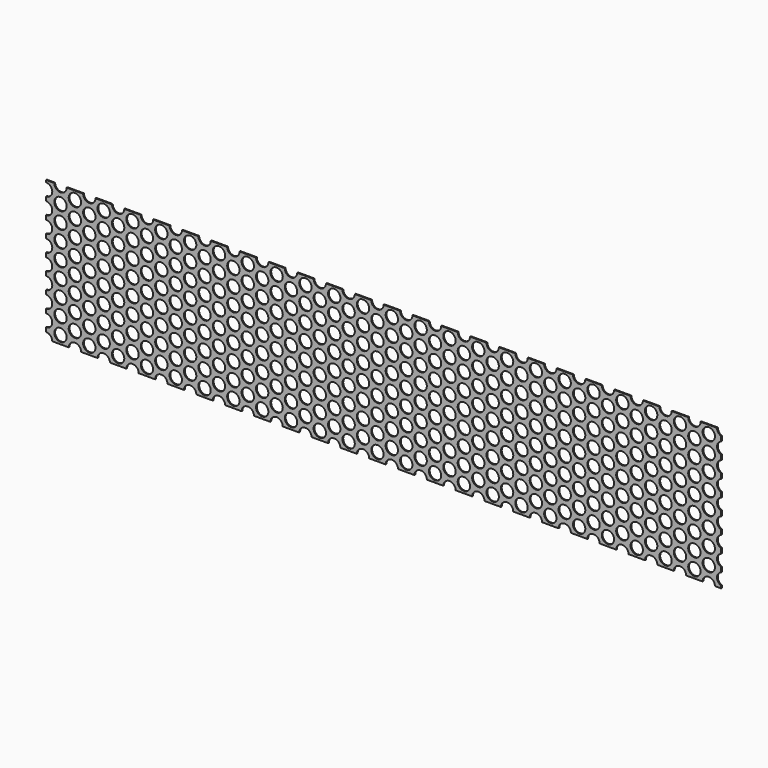
from build123d import *

# Parameters (mm, degrees)
F0_W     = 1041.4
F0_H     = 215.9
F1_DEPTH = 1.524
F2_R     = 9.525
F3_DEPTH = 1.525


with BuildPart() as f1:
    # F0 (on Front) → F1 (new body)
    with BuildSketch(Plane.XZ):
        with Locations((520.7, 107.95)):
            Rectangle(F0_W, F0_H)
    extrude(amount=F1_DEPTH)

    # F2 (on face) → F3 (cut, through all)
    with BuildSketch(Plane.XZ.offset(1.524)):
        Circle(F2_R)
        with Locations((0, 25.4)):
            Circle(F2_R)
        with Locations((0, 50.8)):
            Circle(F2_R)
        with Locations((0, 76.2)):
            Circle(F2_R)
        with Locations((0, 101.6)):
            Circle(F2_R)
        with Locations((0, 127)):
            Circle(F2_R)
        with Locations((0, 152.4)):
            Circle(F2_R)
        with Locations((0, 177.8)):
            Circle(F2_R)
        with Locations((0, 203.2)):
            Circle(F2_R)
        with Locations((44.45, 0)):
            Circle(F2_R)
        with Locations((44.45, 25.4)):
            Circle(F2_R)
        with Locations((44.45, 50.8)):
            Circle(F2_R)
        with Locations((44.45, 76.2)):
            Circle(F2_R)
        with Locations((44.45, 101.6)):
            Circle(F2_R)
        with Locations((44.45, 127)):
            Circle(F2_R)
        with Locations((44.45, 152.4)):
            Circle(F2_R)
        with Locations((44.45, 177.8)):
            Circle(F2_R)
        with Locations((44.45, 203.2)):
            Circle(F2_R)
        with Locations((88.9, 0)):
            Circle(F2_R)
        with Locations((88.9, 25.4)):
            Circle(F2_R)
        with Locations((88.9, 50.8)):
            Circle(F2_R)
        with Locations((88.9, 76.2)):
            Circle(F2_R)
        with Locations((88.9, 101.6)):
            Circle(F2_R)
        with Locations((88.9, 127)):
            Circle(F2_R)
        with Locations((88.9, 152.4)):
            Circle(F2_R)
        with Locations((88.9, 177.8)):
            Circle(F2_R)
        with Locations((88.9, 203.2)):
            Circle(F2_R)
        with Locations((133.35, 0)):
            Circle(F2_R)
        with Locations((133.35, 25.4)):
            Circle(F2_R)
        with Locations((133.35, 50.8)):
            Circle(F2_R)
        with Locations((133.35, 76.2)):
            Circle(F2_R)
        with Locations((133.35, 101.6)):
            Circle(F2_R)
        with Locations((133.35, 127)):
            Circle(F2_R)
        with Locations((133.35, 152.4)):
            Circle(F2_R)
        with Locations((133.35, 177.8)):
            Circle(F2_R)
        with Locations((133.35, 203.2)):
            Circle(F2_R)
        with Locations((177.8, 0)):
            Circle(F2_R)
        with Locations((177.8, 25.4)):
            Circle(F2_R)
        with Locations((177.8, 50.8)):
            Circle(F2_R)
        with Locations((177.8, 76.2)):
            Circle(F2_R)
        with Locations((177.8, 101.6)):
            Circle(F2_R)
        with Locations((177.8, 127)):
            Circle(F2_R)
        with Locations((177.8, 152.4)):
            Circle(F2_R)
        with Locations((177.8, 177.8)):
            Circle(F2_R)
        with Locations((177.8, 203.2)):
            Circle(F2_R)
        with Locations((222.25, 0)):
            Circle(F2_R)
        with Locations((222.25, 25.4)):
            Circle(F2_R)
        with Locations((222.25, 50.8)):
            Circle(F2_R)
        with Locations((222.25, 76.2)):
            Circle(F2_R)
        with Locations((222.25, 101.6)):
            Circle(F2_R)
        with Locations((222.25, 127)):
            Circle(F2_R)
        with Locations((222.25, 152.4)):
            Circle(F2_R)
        with Locations((222.25, 177.8)):
            Circle(F2_R)
        with Locations((222.25, 203.2)):
            Circle(F2_R)
        with Locations((266.7, 0)):
            Circle(F2_R)
        with Locations((266.7, 25.4)):
            Circle(F2_R)
        with Locations((266.7, 50.8)):
            Circle(F2_R)
        with Locations((266.7, 76.2)):
            Circle(F2_R)
        with Locations((266.7, 101.6)):
            Circle(F2_R)
        with Locations((266.7, 127)):
            Circle(F2_R)
        with Locations((266.7, 152.4)):
            Circle(F2_R)
        with Locations((266.7, 177.8)):
            Circle(F2_R)
        with Locations((266.7, 203.2)):
            Circle(F2_R)
        with Locations((311.15, 0)):
            Circle(F2_R)
        with Locations((311.15, 25.4)):
            Circle(F2_R)
        with Locations((311.15, 50.8)):
            Circle(F2_R)
        with Locations((311.15, 76.2)):
            Circle(F2_R)
        with Locations((311.15, 101.6)):
            Circle(F2_R)
        with Locations((311.15, 127)):
            Circle(F2_R)
        with Locations((311.15, 152.4)):
            Circle(F2_R)
        with Locations((311.15, 177.8)):
            Circle(F2_R)
        with Locations((311.15, 203.2)):
            Circle(F2_R)
        with Locations((355.6, 0)):
            Circle(F2_R)
        with Locations((355.6, 25.4)):
            Circle(F2_R)
        with Locations((355.6, 50.8)):
            Circle(F2_R)
        with Locations((355.6, 76.2)):
            Circle(F2_R)
        with Locations((355.6, 101.6)):
            Circle(F2_R)
        with Locations((355.6, 127)):
            Circle(F2_R)
        with Locations((355.6, 152.4)):
            Circle(F2_R)
        with Locations((355.6, 177.8)):
            Circle(F2_R)
        with Locations((355.6, 203.2)):
            Circle(F2_R)
        with Locations((400.05, 0)):
            Circle(F2_R)
        with Locations((400.05, 25.4)):
            Circle(F2_R)
        with Locations((400.05, 50.8)):
            Circle(F2_R)
        with Locations((400.05, 76.2)):
            Circle(F2_R)
        with Locations((400.05, 101.6)):
            Circle(F2_R)
        with Locations((400.05, 127)):
            Circle(F2_R)
        with Locations((400.05, 152.4)):
            Circle(F2_R)
        with Locations((400.05, 177.8)):
            Circle(F2_R)
        with Locations((400.05, 203.2)):
            Circle(F2_R)
        with Locations((444.5, 0)):
            Circle(F2_R)
        with Locations((444.5, 25.4)):
            Circle(F2_R)
        with Locations((444.5, 50.8)):
            Circle(F2_R)
        with Locations((444.5, 76.2)):
            Circle(F2_R)
        with Locations((444.5, 101.6)):
            Circle(F2_R)
        with Locations((444.5, 127)):
            Circle(F2_R)
        with Locations((444.5, 152.4)):
            Circle(F2_R)
        with Locations((444.5, 177.8)):
            Circle(F2_R)
        with Locations((444.5, 203.2)):
            Circle(F2_R)
        with Locations((488.95, 0)):
            Circle(F2_R)
        with Locations((488.95, 25.4)):
            Circle(F2_R)
        with Locations((488.95, 50.8)):
            Circle(F2_R)
        with Locations((488.95, 76.2)):
            Circle(F2_R)
        with Locations((488.95, 101.6)):
            Circle(F2_R)
        with Locations((488.95, 127)):
            Circle(F2_R)
        with Locations((488.95, 152.4)):
            Circle(F2_R)
        with Locations((488.95, 177.8)):
            Circle(F2_R)
        with Locations((488.95, 203.2)):
            Circle(F2_R)
        with Locations((533.4, 0)):
            Circle(F2_R)
        with Locations((533.4, 25.4)):
            Circle(F2_R)
        with Locations((533.4, 50.8)):
            Circle(F2_R)
        with Locations((533.4, 76.2)):
            Circle(F2_R)
        with Locations((533.4, 101.6)):
            Circle(F2_R)
        with Locations((533.4, 127)):
            Circle(F2_R)
        with Locations((533.4, 152.4)):
            Circle(F2_R)
        with Locations((533.4, 177.8)):
            Circle(F2_R)
        with Locations((533.4, 203.2)):
            Circle(F2_R)
        with Locations((577.85, 0)):
            Circle(F2_R)
        with Locations((577.85, 25.4)):
            Circle(F2_R)
        with Locations((577.85, 50.8)):
            Circle(F2_R)
        with Locations((577.85, 76.2)):
            Circle(F2_R)
        with Locations((577.85, 101.6)):
            Circle(F2_R)
        with Locations((577.85, 127)):
            Circle(F2_R)
        with Locations((577.85, 152.4)):
            Circle(F2_R)
        with Locations((577.85, 177.8)):
            Circle(F2_R)
        with Locations((577.85, 203.2)):
            Circle(F2_R)
        with Locations((622.3, 0)):
            Circle(F2_R)
        with Locations((622.3, 25.4)):
            Circle(F2_R)
        with Locations((622.3, 50.8)):
            Circle(F2_R)
        with Locations((622.3, 76.2)):
            Circle(F2_R)
        with Locations((622.3, 101.6)):
            Circle(F2_R)
        with Locations((622.3, 127)):
            Circle(F2_R)
        with Locations((622.3, 152.4)):
            Circle(F2_R)
        with Locations((622.3, 177.8)):
            Circle(F2_R)
        with Locations((622.3, 203.2)):
            Circle(F2_R)
        with Locations((666.75, 0)):
            Circle(F2_R)
        with Locations((666.75, 25.4)):
            Circle(F2_R)
        with Locations((666.75, 50.8)):
            Circle(F2_R)
        with Locations((666.75, 76.2)):
            Circle(F2_R)
        with Locations((666.75, 101.6)):
            Circle(F2_R)
        with Locations((666.75, 127)):
            Circle(F2_R)
        with Locations((666.75, 152.4)):
            Circle(F2_R)
        with Locations((666.75, 177.8)):
            Circle(F2_R)
        with Locations((666.75, 203.2)):
            Circle(F2_R)
        with Locations((711.2, 0)):
            Circle(F2_R)
        with Locations((711.2, 25.4)):
            Circle(F2_R)
        with Locations((711.2, 50.8)):
            Circle(F2_R)
        with Locations((711.2, 76.2)):
            Circle(F2_R)
        with Locations((711.2, 101.6)):
            Circle(F2_R)
        with Locations((711.2, 127)):
            Circle(F2_R)
        with Locations((711.2, 152.4)):
            Circle(F2_R)
        with Locations((711.2, 177.8)):
            Circle(F2_R)
        with Locations((711.2, 203.2)):
            Circle(F2_R)
        with Locations((755.65, 0)):
            Circle(F2_R)
        with Locations((755.65, 25.4)):
            Circle(F2_R)
        with Locations((755.65, 50.8)):
            Circle(F2_R)
        with Locations((755.65, 76.2)):
            Circle(F2_R)
        with Locations((755.65, 101.6)):
            Circle(F2_R)
        with Locations((755.65, 127)):
            Circle(F2_R)
        with Locations((755.65, 152.4)):
            Circle(F2_R)
        with Locations((755.65, 177.8)):
            Circle(F2_R)
        with Locations((755.65, 203.2)):
            Circle(F2_R)
        with Locations((800.1, 0)):
            Circle(F2_R)
        with Locations((800.1, 25.4)):
            Circle(F2_R)
        with Locations((800.1, 50.8)):
            Circle(F2_R)
        with Locations((800.1, 76.2)):
            Circle(F2_R)
        with Locations((800.1, 101.6)):
            Circle(F2_R)
        with Locations((800.1, 127)):
            Circle(F2_R)
        with Locations((800.1, 152.4)):
            Circle(F2_R)
        with Locations((800.1, 177.8)):
            Circle(F2_R)
        with Locations((800.1, 203.2)):
            Circle(F2_R)
        with Locations((844.55, 0)):
            Circle(F2_R)
        with Locations((844.55, 25.4)):
            Circle(F2_R)
        with Locations((844.55, 50.8)):
            Circle(F2_R)
        with Locations((844.55, 76.2)):
            Circle(F2_R)
        with Locations((844.55, 101.6)):
            Circle(F2_R)
        with Locations((844.55, 127)):
            Circle(F2_R)
        with Locations((844.55, 152.4)):
            Circle(F2_R)
        with Locations((844.55, 177.8)):
            Circle(F2_R)
        with Locations((844.55, 203.2)):
            Circle(F2_R)
        with Locations((889, 0)):
            Circle(F2_R)
        with Locations((889, 25.4)):
            Circle(F2_R)
        with Locations((889, 50.8)):
            Circle(F2_R)
        with Locations((889, 76.2)):
            Circle(F2_R)
        with Locations((889, 101.6)):
            Circle(F2_R)
        with Locations((889, 127)):
            Circle(F2_R)
        with Locations((889, 152.4)):
            Circle(F2_R)
        with Locations((889, 177.8)):
            Circle(F2_R)
        with Locations((889, 203.2)):
            Circle(F2_R)
        with Locations((933.45, 0)):
            Circle(F2_R)
        with Locations((933.45, 25.4)):
            Circle(F2_R)
        with Locations((933.45, 50.8)):
            Circle(F2_R)
        with Locations((933.45, 76.2)):
            Circle(F2_R)
        with Locations((933.45, 101.6)):
            Circle(F2_R)
        with Locations((933.45, 127)):
            Circle(F2_R)
        with Locations((933.45, 152.4)):
            Circle(F2_R)
        with Locations((933.45, 177.8)):
            Circle(F2_R)
        with Locations((933.45, 203.2)):
            Circle(F2_R)
        with Locations((977.9, 0)):
            Circle(F2_R)
        with Locations((977.9, 25.4)):
            Circle(F2_R)
        with Locations((977.9, 50.8)):
            Circle(F2_R)
        with Locations((977.9, 76.2)):
            Circle(F2_R)
        with Locations((977.9, 101.6)):
            Circle(F2_R)
        with Locations((977.9, 127)):
            Circle(F2_R)
        with Locations((977.9, 152.4)):
            Circle(F2_R)
        with Locations((977.9, 177.8)):
            Circle(F2_R)
        with Locations((977.9, 203.2)):
            Circle(F2_R)
        with Locations((1022.35, 0)):
            Circle(F2_R)
        with Locations((1022.35, 25.4)):
            Circle(F2_R)
        with Locations((1022.35, 50.8)):
            Circle(F2_R)
        with Locations((1022.35, 76.2)):
            Circle(F2_R)
        with Locations((1022.35, 101.6)):
            Circle(F2_R)
        with Locations((1022.35, 127)):
            Circle(F2_R)
        with Locations((1022.35, 152.4)):
            Circle(F2_R)
        with Locations((1022.35, 177.8)):
            Circle(F2_R)
        with Locations((1022.35, 203.2)):
            Circle(F2_R)
        with Locations((22.225, 12.7)):
            Circle(F2_R)
        with Locations((22.225, 38.1)):
            Circle(F2_R)
        with Locations((22.225, 63.5)):
            Circle(F2_R)
        with Locations((22.225, 88.9)):
            Circle(F2_R)
        with Locations((22.225, 114.3)):
            Circle(F2_R)
        with Locations((22.225, 139.7)):
            Circle(F2_R)
        with Locations((22.225, 165.1)):
            Circle(F2_R)
        with Locations((22.225, 190.5)):
            Circle(F2_R)
        with Locations((22.225, 215.9)):
            Circle(F2_R)
        with Locations((66.675, 12.7)):
            Circle(F2_R)
        with Locations((66.675, 38.1)):
            Circle(F2_R)
        with Locations((66.675, 63.5)):
            Circle(F2_R)
        with Locations((66.675, 88.9)):
            Circle(F2_R)
        with Locations((66.675, 114.3)):
            Circle(F2_R)
        with Locations((66.675, 139.7)):
            Circle(F2_R)
        with Locations((66.675, 165.1)):
            Circle(F2_R)
        with Locations((66.675, 190.5)):
            Circle(F2_R)
        with Locations((66.675, 215.9)):
            Circle(F2_R)
        with Locations((111.125, 12.7)):
            Circle(F2_R)
        with Locations((111.125, 38.1)):
            Circle(F2_R)
        with Locations((111.125, 63.5)):
            Circle(F2_R)
        with Locations((111.125, 88.9)):
            Circle(F2_R)
        with Locations((111.125, 114.3)):
            Circle(F2_R)
        with Locations((111.125, 139.7)):
            Circle(F2_R)
        with Locations((111.125, 165.1)):
            Circle(F2_R)
        with Locations((111.125, 190.5)):
            Circle(F2_R)
        with Locations((111.125, 215.9)):
            Circle(F2_R)
        with Locations((155.575, 12.7)):
            Circle(F2_R)
        with Locations((155.575, 38.1)):
            Circle(F2_R)
        with Locations((155.575, 63.5)):
            Circle(F2_R)
        with Locations((155.575, 88.9)):
            Circle(F2_R)
        with Locations((155.575, 114.3)):
            Circle(F2_R)
        with Locations((155.575, 139.7)):
            Circle(F2_R)
        with Locations((155.575, 165.1)):
            Circle(F2_R)
        with Locations((155.575, 190.5)):
            Circle(F2_R)
        with Locations((155.575, 215.9)):
            Circle(F2_R)
        with Locations((200.025, 12.7)):
            Circle(F2_R)
        with Locations((200.025, 38.1)):
            Circle(F2_R)
        with Locations((200.025, 63.5)):
            Circle(F2_R)
        with Locations((200.025, 88.9)):
            Circle(F2_R)
        with Locations((200.025, 114.3)):
            Circle(F2_R)
        with Locations((200.025, 139.7)):
            Circle(F2_R)
        with Locations((200.025, 165.1)):
            Circle(F2_R)
        with Locations((200.025, 190.5)):
            Circle(F2_R)
        with Locations((200.025, 215.9)):
            Circle(F2_R)
        with Locations((244.475, 12.7)):
            Circle(F2_R)
        with Locations((244.475, 38.1)):
            Circle(F2_R)
        with Locations((244.475, 63.5)):
            Circle(F2_R)
        with Locations((244.475, 88.9)):
            Circle(F2_R)
        with Locations((244.475, 114.3)):
            Circle(F2_R)
        with Locations((244.475, 139.7)):
            Circle(F2_R)
        with Locations((244.475, 165.1)):
            Circle(F2_R)
        with Locations((244.475, 190.5)):
            Circle(F2_R)
        with Locations((244.475, 215.9)):
            Circle(F2_R)
        with Locations((288.925, 12.7)):
            Circle(F2_R)
        with Locations((288.925, 38.1)):
            Circle(F2_R)
        with Locations((288.925, 63.5)):
            Circle(F2_R)
        with Locations((288.925, 88.9)):
            Circle(F2_R)
        with Locations((288.925, 114.3)):
            Circle(F2_R)
        with Locations((288.925, 139.7)):
            Circle(F2_R)
        with Locations((288.925, 165.1)):
            Circle(F2_R)
        with Locations((288.925, 190.5)):
            Circle(F2_R)
        with Locations((288.925, 215.9)):
            Circle(F2_R)
        with Locations((333.375, 12.7)):
            Circle(F2_R)
        with Locations((333.375, 38.1)):
            Circle(F2_R)
        with Locations((333.375, 63.5)):
            Circle(F2_R)
        with Locations((333.375, 88.9)):
            Circle(F2_R)
        with Locations((333.375, 114.3)):
            Circle(F2_R)
        with Locations((333.375, 139.7)):
            Circle(F2_R)
        with Locations((333.375, 165.1)):
            Circle(F2_R)
        with Locations((333.375, 190.5)):
            Circle(F2_R)
        with Locations((333.375, 215.9)):
            Circle(F2_R)
        with Locations((377.825, 12.7)):
            Circle(F2_R)
        with Locations((377.825, 38.1)):
            Circle(F2_R)
        with Locations((377.825, 63.5)):
            Circle(F2_R)
        with Locations((377.825, 88.9)):
            Circle(F2_R)
        with Locations((377.825, 114.3)):
            Circle(F2_R)
        with Locations((377.825, 139.7)):
            Circle(F2_R)
        with Locations((377.825, 165.1)):
            Circle(F2_R)
        with Locations((377.825, 190.5)):
            Circle(F2_R)
        with Locations((377.825, 215.9)):
            Circle(F2_R)
        with Locations((422.275, 12.7)):
            Circle(F2_R)
        with Locations((422.275, 38.1)):
            Circle(F2_R)
        with Locations((422.275, 63.5)):
            Circle(F2_R)
        with Locations((422.275, 88.9)):
            Circle(F2_R)
        with Locations((422.275, 114.3)):
            Circle(F2_R)
        with Locations((422.275, 139.7)):
            Circle(F2_R)
        with Locations((422.275, 165.1)):
            Circle(F2_R)
        with Locations((422.275, 190.5)):
            Circle(F2_R)
        with Locations((422.275, 215.9)):
            Circle(F2_R)
        with Locations((466.725, 12.7)):
            Circle(F2_R)
        with Locations((466.725, 38.1)):
            Circle(F2_R)
        with Locations((466.725, 63.5)):
            Circle(F2_R)
        with Locations((466.725, 88.9)):
            Circle(F2_R)
        with Locations((466.725, 114.3)):
            Circle(F2_R)
        with Locations((466.725, 139.7)):
            Circle(F2_R)
        with Locations((466.725, 165.1)):
            Circle(F2_R)
        with Locations((466.725, 190.5)):
            Circle(F2_R)
        with Locations((466.725, 215.9)):
            Circle(F2_R)
        with Locations((511.175, 12.7)):
            Circle(F2_R)
        with Locations((511.175, 38.1)):
            Circle(F2_R)
        with Locations((511.175, 63.5)):
            Circle(F2_R)
        with Locations((511.175, 88.9)):
            Circle(F2_R)
        with Locations((511.175, 114.3)):
            Circle(F2_R)
        with Locations((511.175, 139.7)):
            Circle(F2_R)
        with Locations((511.175, 165.1)):
            Circle(F2_R)
        with Locations((511.175, 190.5)):
            Circle(F2_R)
        with Locations((511.175, 215.9)):
            Circle(F2_R)
        with Locations((555.625, 12.7)):
            Circle(F2_R)
        with Locations((555.625, 38.1)):
            Circle(F2_R)
        with Locations((555.625, 63.5)):
            Circle(F2_R)
        with Locations((555.625, 88.9)):
            Circle(F2_R)
        with Locations((555.625, 114.3)):
            Circle(F2_R)
        with Locations((555.625, 139.7)):
            Circle(F2_R)
        with Locations((555.625, 165.1)):
            Circle(F2_R)
        with Locations((555.625, 190.5)):
            Circle(F2_R)
        with Locations((555.625, 215.9)):
            Circle(F2_R)
        with Locations((600.075, 12.7)):
            Circle(F2_R)
        with Locations((600.075, 38.1)):
            Circle(F2_R)
        with Locations((600.075, 63.5)):
            Circle(F2_R)
        with Locations((600.075, 88.9)):
            Circle(F2_R)
        with Locations((600.075, 114.3)):
            Circle(F2_R)
        with Locations((600.075, 139.7)):
            Circle(F2_R)
        with Locations((600.075, 165.1)):
            Circle(F2_R)
        with Locations((600.075, 190.5)):
            Circle(F2_R)
        with Locations((600.075, 215.9)):
            Circle(F2_R)
        with Locations((644.525, 12.7)):
            Circle(F2_R)
        with Locations((644.525, 38.1)):
            Circle(F2_R)
        with Locations((644.525, 63.5)):
            Circle(F2_R)
        with Locations((644.525, 88.9)):
            Circle(F2_R)
        with Locations((644.525, 114.3)):
            Circle(F2_R)
        with Locations((644.525, 139.7)):
            Circle(F2_R)
        with Locations((644.525, 165.1)):
            Circle(F2_R)
        with Locations((644.525, 190.5)):
            Circle(F2_R)
        with Locations((644.525, 215.9)):
            Circle(F2_R)
        with Locations((688.975, 12.7)):
            Circle(F2_R)
        with Locations((688.975, 38.1)):
            Circle(F2_R)
        with Locations((688.975, 63.5)):
            Circle(F2_R)
        with Locations((688.975, 88.9)):
            Circle(F2_R)
        with Locations((688.975, 114.3)):
            Circle(F2_R)
        with Locations((688.975, 139.7)):
            Circle(F2_R)
        with Locations((688.975, 165.1)):
            Circle(F2_R)
        with Locations((688.975, 190.5)):
            Circle(F2_R)
        with Locations((688.975, 215.9)):
            Circle(F2_R)
        with Locations((733.425, 12.7)):
            Circle(F2_R)
        with Locations((733.425, 38.1)):
            Circle(F2_R)
        with Locations((733.425, 63.5)):
            Circle(F2_R)
        with Locations((733.425, 88.9)):
            Circle(F2_R)
        with Locations((733.425, 114.3)):
            Circle(F2_R)
        with Locations((733.425, 139.7)):
            Circle(F2_R)
        with Locations((733.425, 165.1)):
            Circle(F2_R)
        with Locations((733.425, 190.5)):
            Circle(F2_R)
        with Locations((733.425, 215.9)):
            Circle(F2_R)
        with Locations((777.875, 12.7)):
            Circle(F2_R)
        with Locations((777.875, 38.1)):
            Circle(F2_R)
        with Locations((777.875, 63.5)):
            Circle(F2_R)
        with Locations((777.875, 88.9)):
            Circle(F2_R)
        with Locations((777.875, 114.3)):
            Circle(F2_R)
        with Locations((777.875, 139.7)):
            Circle(F2_R)
        with Locations((777.875, 165.1)):
            Circle(F2_R)
        with Locations((777.875, 190.5)):
            Circle(F2_R)
        with Locations((777.875, 215.9)):
            Circle(F2_R)
        with Locations((822.325, 12.7)):
            Circle(F2_R)
        with Locations((822.325, 38.1)):
            Circle(F2_R)
        with Locations((822.325, 63.5)):
            Circle(F2_R)
        with Locations((822.325, 88.9)):
            Circle(F2_R)
        with Locations((822.325, 114.3)):
            Circle(F2_R)
        with Locations((822.325, 139.7)):
            Circle(F2_R)
        with Locations((822.325, 165.1)):
            Circle(F2_R)
        with Locations((822.325, 190.5)):
            Circle(F2_R)
        with Locations((822.325, 215.9)):
            Circle(F2_R)
        with Locations((866.775, 12.7)):
            Circle(F2_R)
        with Locations((866.775, 38.1)):
            Circle(F2_R)
        with Locations((866.775, 63.5)):
            Circle(F2_R)
        with Locations((866.775, 88.9)):
            Circle(F2_R)
        with Locations((866.775, 114.3)):
            Circle(F2_R)
        with Locations((866.775, 139.7)):
            Circle(F2_R)
        with Locations((866.775, 165.1)):
            Circle(F2_R)
        with Locations((866.775, 190.5)):
            Circle(F2_R)
        with Locations((866.775, 215.9)):
            Circle(F2_R)
        with Locations((911.225, 12.7)):
            Circle(F2_R)
        with Locations((911.225, 38.1)):
            Circle(F2_R)
        with Locations((911.225, 63.5)):
            Circle(F2_R)
        with Locations((911.225, 88.9)):
            Circle(F2_R)
        with Locations((911.225, 114.3)):
            Circle(F2_R)
        with Locations((911.225, 139.7)):
            Circle(F2_R)
        with Locations((911.225, 165.1)):
            Circle(F2_R)
        with Locations((911.225, 190.5)):
            Circle(F2_R)
        with Locations((911.225, 215.9)):
            Circle(F2_R)
        with Locations((955.675, 12.7)):
            Circle(F2_R)
        with Locations((955.675, 38.1)):
            Circle(F2_R)
        with Locations((955.675, 63.5)):
            Circle(F2_R)
        with Locations((955.675, 88.9)):
            Circle(F2_R)
        with Locations((955.675, 114.3)):
            Circle(F2_R)
        with Locations((955.675, 139.7)):
            Circle(F2_R)
        with Locations((955.675, 165.1)):
            Circle(F2_R)
        with Locations((955.675, 190.5)):
            Circle(F2_R)
        with Locations((955.675, 215.9)):
            Circle(F2_R)
        with Locations((1000.125, 12.7)):
            Circle(F2_R)
        with Locations((1000.125, 38.1)):
            Circle(F2_R)
        with Locations((1000.125, 63.5)):
            Circle(F2_R)
        with Locations((1000.125, 88.9)):
            Circle(F2_R)
        with Locations((1000.125, 114.3)):
            Circle(F2_R)
        with Locations((1000.125, 139.7)):
            Circle(F2_R)
        with Locations((1000.125, 165.1)):
            Circle(F2_R)
        with Locations((1000.125, 190.5)):
            Circle(F2_R)
        with Locations((1000.125, 215.9)):
            Circle(F2_R)
        with Locations((1044.575, 12.7)):
            Circle(F2_R)
        with Locations((1044.575, 38.1)):
            Circle(F2_R)
        with Locations((1044.575, 63.5)):
            Circle(F2_R)
        with Locations((1044.575, 88.9)):
            Circle(F2_R)
        with Locations((1044.575, 114.3)):
            Circle(F2_R)
        with Locations((1044.575, 139.7)):
            Circle(F2_R)
        with Locations((1044.575, 165.1)):
            Circle(F2_R)
        with Locations((1044.575, 190.5)):
            Circle(F2_R)
        with Locations((1044.575, 215.9)):
            Circle(F2_R)
    extrude(amount=-F3_DEPTH, mode=Mode.SUBTRACT)


solid = f1.part
